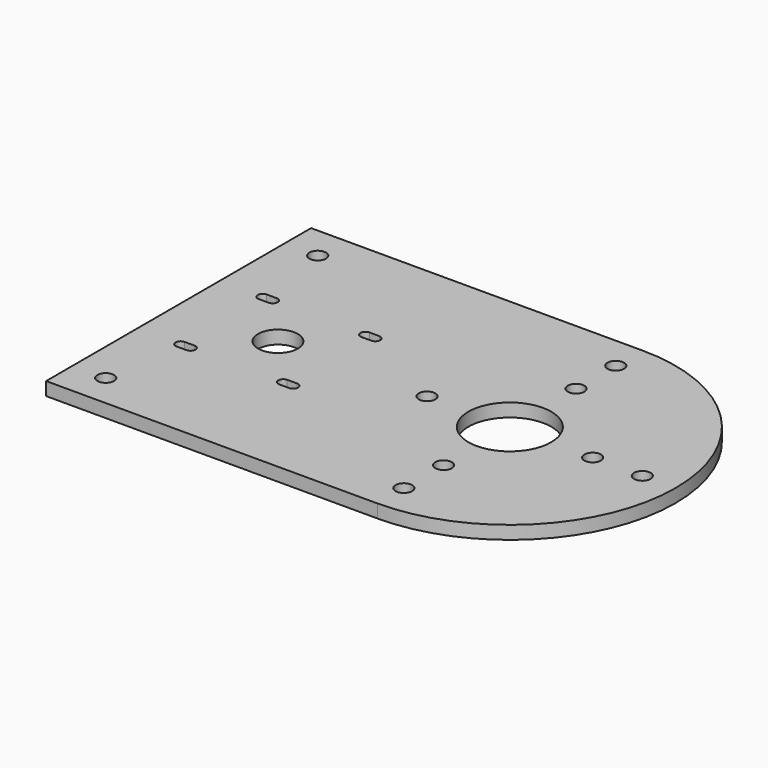
from build123d import *

# Parameters (mm, degrees)
F0_R     = 6
F0_R_2   = 12.5
F1_DEPTH = 4
F3_D     = 5


with BuildPart() as f1:
    # F0 (on Top) → F1 (new body)
    with BuildSketch(Plane.XY):
        with BuildLine():
            Line((-100, -50), (0, -50))
            ThreePointArc((0, -50), (50, 0), (0, 50))
            Line((0, 50), (-100, 50))
            Line((-100, 50), (-100, -50))
        make_face()
        with BuildLine():
            ThreePointArc((-87, -17), (-88.5, -15.5), (-87, -14))
            Line((-87, -14), (-84, -14))
            ThreePointArc((-84, -14), (-82.5, -15.5), (-84, -17))
            Line((-84, -17), (-87, -17))
        make_face(mode=Mode.SUBTRACT)
        with BuildLine():
            Line((-56, -14), (-53, -14))
            ThreePointArc((-53, -14), (-51.5, -15.5), (-53, -17))
            Line((-53, -17), (-56, -17))
            ThreePointArc((-56, -17), (-57.5, -15.5), (-56, -14))
        make_face(mode=Mode.SUBTRACT)
        with Locations((-70, 0)):
            Circle(F0_R, mode=Mode.SUBTRACT)
        with BuildLine():
            ThreePointArc((-87, 14), (-88.5, 15.5), (-87, 17))
            Line((-87, 17), (-84, 17))
            ThreePointArc((-84, 17), (-82.5, 15.5), (-84, 14))
            Line((-84, 14), (-87, 14))
        make_face(mode=Mode.SUBTRACT)
        with BuildLine():
            ThreePointArc((-56, 14), (-57.5, 15.5), (-56, 17))
            Line((-56, 17), (-53, 17))
            ThreePointArc((-53, 17), (-51.5, 15.5), (-53, 14))
            Line((-53, 14), (-56, 14))
        make_face(mode=Mode.SUBTRACT)
        Circle(F0_R_2, mode=Mode.SUBTRACT)
    extrude(amount=F1_DEPTH)

    # F3 (through all)
    with Locations(Plane.XY.offset(4)):
        with Locations((0, 40), (40, 0), (0, -40), (-90, 40), (-90, -40), (0, 25), (25, 0), (0, -25), (-25, 0)):
            Hole(F3_D / 2)


solid = f1.part
